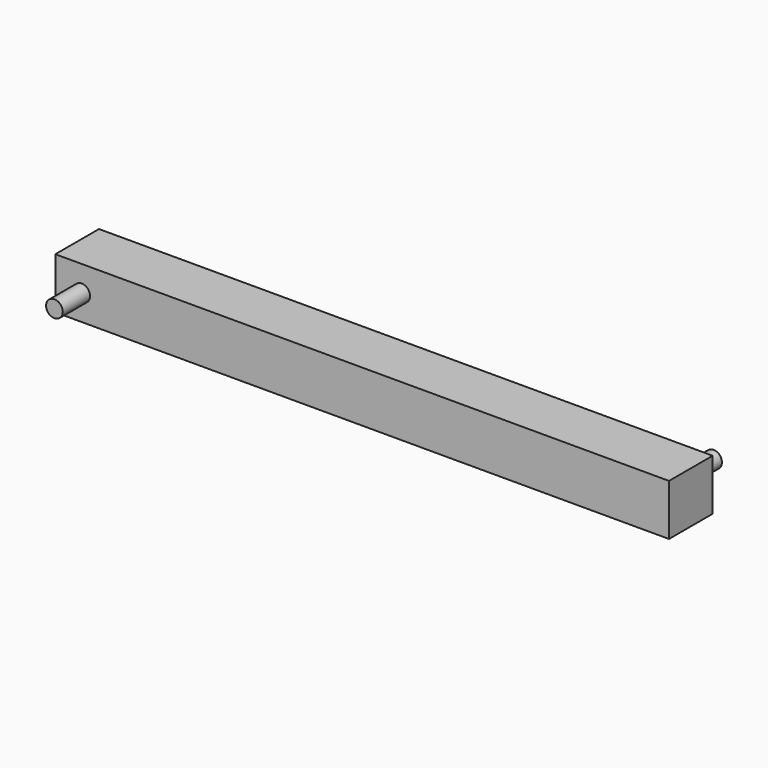
from build123d import *

# Parameters (mm, degrees)
F0_W     = 228.6
F0_H     = 19.05
F1_DEPTH = 20.32
F3_W     = 9.525
F3_H     = 10.16
F4_DEPTH = 12.7
F2_R     = 3.1115
F5_DEPTH = 12.7
F6_R     = 3.1115
F7_DEPTH = 12.7


with BuildPart() as f1:
    # F0 (on Front) → F1 (new body)
    with BuildSketch(Plane.XZ):
        Rectangle(F0_W, F0_H)
    extrude(amount=F1_DEPTH)

    # F3 (on face) → F4 (cut)
    with BuildSketch(Plane(origin=(0, 0, 0), x_dir=(-1, 0, 0), z_dir=(0, 1, 0))):
        Rectangle(F3_W, F3_H)
        with Locations((25.4, 0)):
            Rectangle(F3_W, F3_H)
        with Locations((50.8, 0)):
            Rectangle(F3_W, F3_H)
        with Locations((-25.4, 0)):
            Rectangle(F3_W, F3_H)
        with Locations((-50.8, 0)):
            Rectangle(F3_W, F3_H)
        with Locations((-76.2, 0)):
            Rectangle(F3_W, F3_H)
        with Locations((76.2, 0)):
            Rectangle(F3_W, F3_H)
    extrude(amount=-F4_DEPTH, mode=Mode.SUBTRACT)

    # F2 (on face) → F5 (join)
    with BuildSketch(Plane.XZ.offset(20.32)):
        with Locations((-104.4829, 0)):
            Circle(F2_R)
    extrude(amount=F5_DEPTH)

    # F6 (on face) → F7 (join)
    with BuildSketch(Plane(origin=(0, 0, 0), x_dir=(-1, 0, 0), z_dir=(0, 1, 0))):
        with Locations((-104.4829, 0)):
            Circle(F6_R)
    extrude(amount=F7_DEPTH)


solid = f1.part
